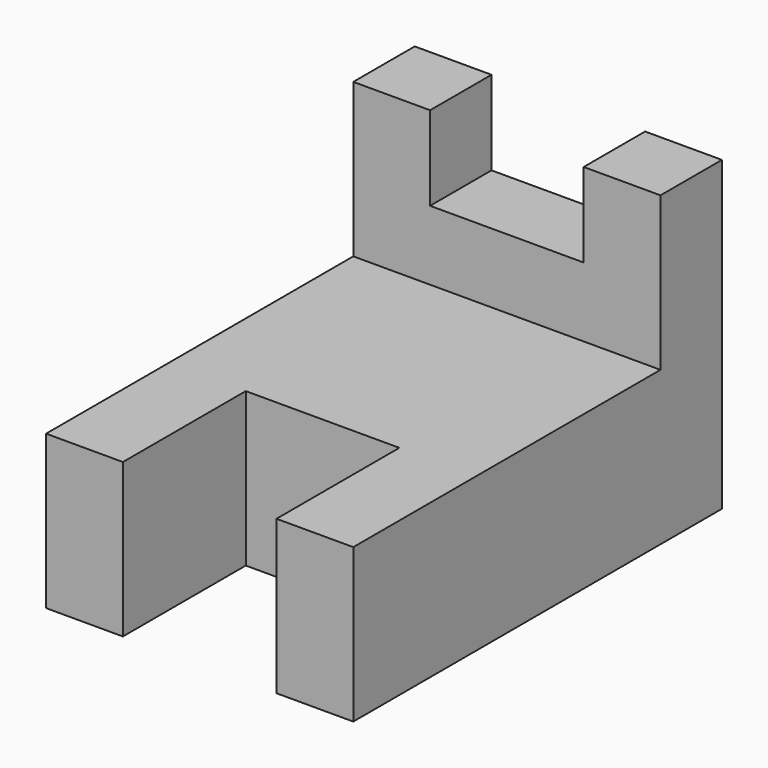
from build123d import *

# Parameters (mm, degrees)
F1_DEPTH = 12.7
F2_W     = 6.35
F2_H     = 6.35
F3_DEPTH = 25.4
F4_W     = 12.7
F4_H     = 6.35
F5_DEPTH = 6.35


with BuildPart() as f1:
    # F0 (on Top) → F1 (new body)
    with BuildSketch(Plane.XY):
        Polygon((25.4, 0), (0, 0), (0, -38.1), (6.35, -38.1), (6.35, -25.4), (19.05, -25.4), (19.05, -38.1), (25.4, -38.1), align=None)
    extrude(amount=F1_DEPTH)

    # F2 (on Top) → F3 (join)
    with BuildSketch(Plane.XY):
        with Locations((22.225, -3.175)):
            Rectangle(F2_W, F2_H)
        with Locations((3.175, -3.175)):
            Rectangle(F2_W, F2_H)
    extrude(amount=F3_DEPTH)

    # F4 (on Front) → F5 (join)
    with BuildSketch(Plane.XZ):
        with Locations((12.7, 15.268326)):
            Rectangle(F4_W, F4_H)
    extrude(amount=F5_DEPTH)


solid = f1.part
